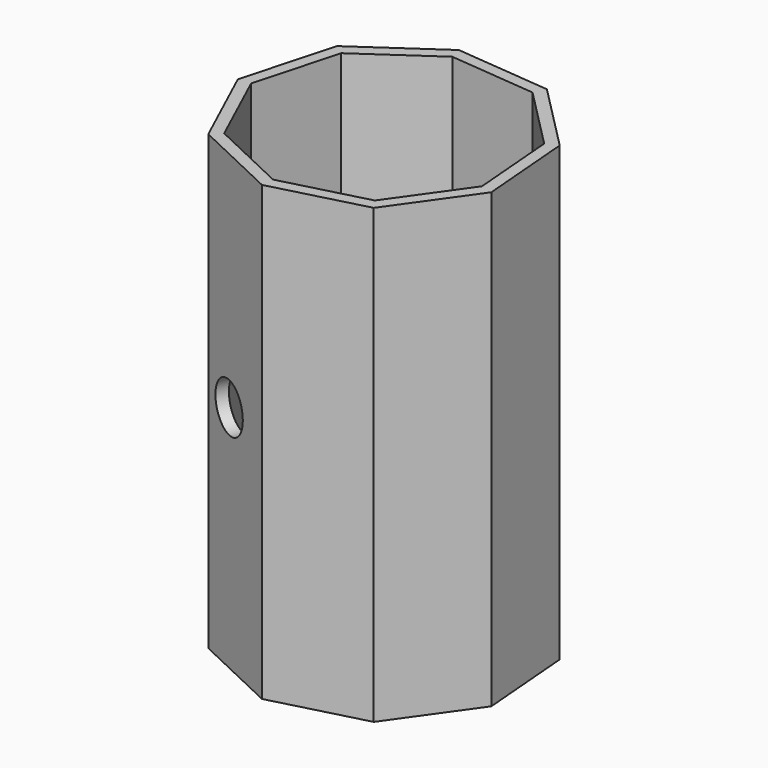
from build123d import *

# Parameters (mm, degrees)
F1_DEPTH = 270
F2_T     = -7
F3_R     = 14.5182596714
F4_DEPTH = 25


with BuildPart() as f1:
    # F0 (on Top) → F1 (new body)
    with BuildSketch(Plane.XY):
        Polygon((47.4160599989, -68.5225782833), (80.3682735811, -22.0128844547), (75.7152787608, 34.7968826563), (35.6342635267, 75.3248016481), (-21.1204196422, 80.6074088069), (-67.9926237332, 48.1729135333), (-83.0503235256, -6.8022233647), (-59.2478539389, -58.5945243522), (-7.7226550276, -82.9697961896), align=None)
    extrude(amount=F1_DEPTH)

    # F2
    f2_openings = [f1.faces().sort_by_distance(p)[0] for p in [
        (0, 0, 270),
    ]]
    offset(amount=F2_T, openings=f2_openings)

    # F3 (on face) → F4 (cut)
    with BuildSketch(Plane(origin=(-33.4852544832, -70.7821602709, 0), x_dir=(0.9039508581, -0.427636348, 0), z_dir=(-0.427636348, -0.9039508581, 0))):
        with Locations((-6.3656242564, 136.8046998978)):
            Circle(F3_R)
    extrude(amount=-F4_DEPTH, mode=Mode.SUBTRACT)


solid = f1.part
